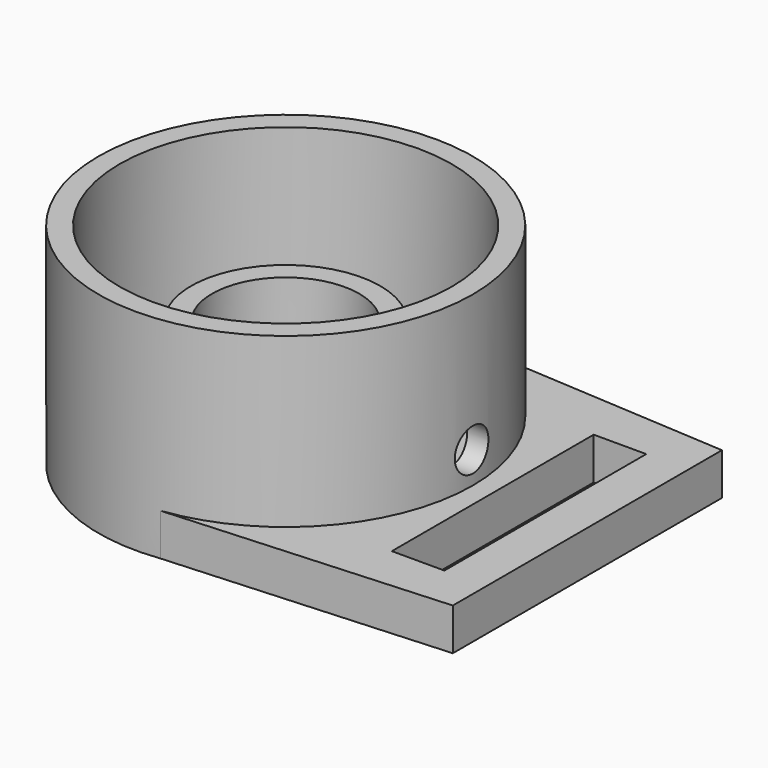
from build123d import *

# Parameters (mm, degrees)
SKETCH001_R   = 8.9
SKETCH001_R_2 = 7.9
PAD001_DEPTH  = 10
SKETCH002_W   = 2.5
SKETCH002_H   = 12
PAD002_DEPTH  = 2
SKETCH003_R   = 4.5
SKETCH003_R_2 = 3.5
PAD003_DEPTH  = 6
SKETCH004_R   = 1
POCKET_DEPTH  = 14.351


with BuildPart() as part:
    # Sketch001 → Pad001 (new body)
    with BuildSketch(Plane.XY):
        Circle(SKETCH001_R)
        Circle(SKETCH001_R_2, mode=Mode.SUBTRACT)
    extrude(amount=PAD001_DEPTH)

    # Sketch002 → Pad002 (join)
    with BuildSketch(Plane.XY):
        with BuildLine():
            Line((14.35, -8), (14.35, 8))
            Line((0, 8.9), (14.35, 8))
            ThreePointArc((0, 8.9), (-8.9, 0), (0, -8.9))
            Line((0, -8.9), (14.35, -8))
        make_face()
        with Locations((11.1, 0)):
            Rectangle(SKETCH002_W, SKETCH002_H, mode=Mode.SUBTRACT)
    extrude(amount=PAD002_DEPTH)

    # Sketch003 → Pad003 (join)
    with BuildSketch(Plane.XY):
        Circle(SKETCH003_R)
        Circle(SKETCH003_R_2, mode=Mode.SUBTRACT)
    extrude(amount=PAD003_DEPTH)

    # Sketch004 → Pocket (cut, through all)
    with BuildSketch(Plane.YZ):
        with Locations((0, 3.5)):
            Circle(SKETCH004_R)
    extrude(amount=POCKET_DEPTH, mode=Mode.SUBTRACT)


solid = part.part
